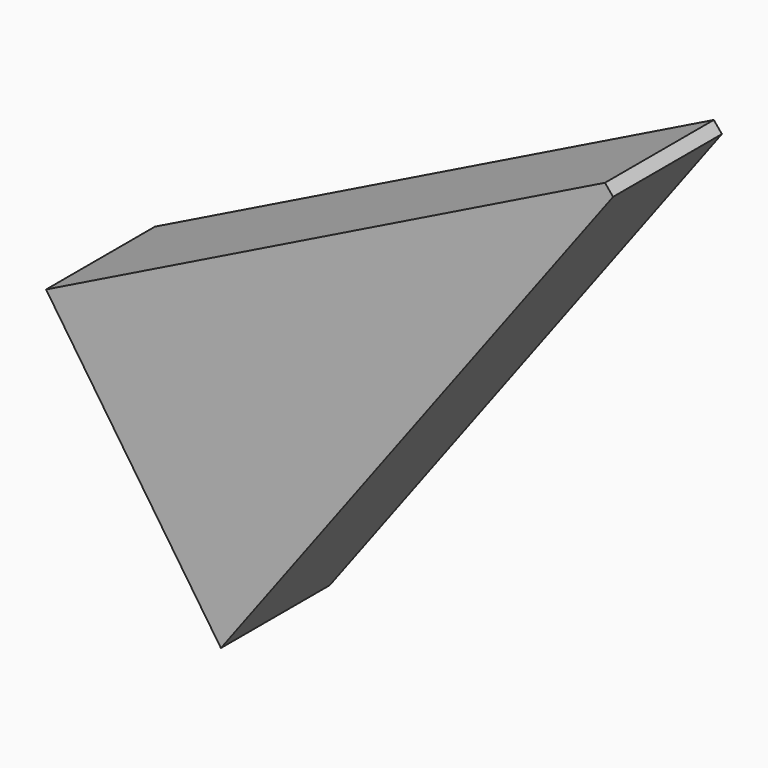
from build123d import *

# Parameters (mm, degrees)
F1_DEPTH = 25.4
F2_SIZE  = 5.08


with BuildPart() as f1:
    # F0 (on Front) → F1 (new body)
    with BuildSketch(Plane.XZ):
        Polygon((-32.639556, 48.324678), (0, 0), (76.263577, 102.045082), align=None)
    extrude(amount=F1_DEPTH)

    # F2
    f2_edges = [f1.edges().sort_by_distance(p)[0] for p in [
        (76.263577, -12.7, 102.045082),
    ]]
    chamfer(f2_edges, length=F2_SIZE)


solid = f1.part
